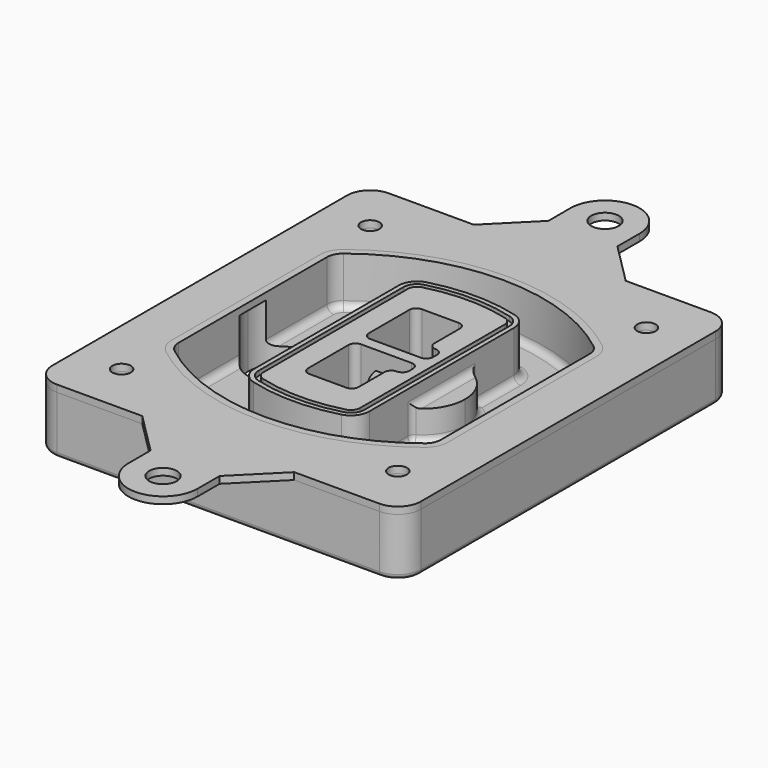
from build123d import *

# Parameters (mm, degrees)
F0_R      = 4
F1_DEPTH  = 25
F2_DEPTH  = 3
F3_DEPTH  = 18
F5_DEPTH  = 21
F6_DEPTH  = 2
F8_DEPTH  = 20
F9_DEPTH  = 16
F10_DEPTH = 25
F7_R      = 6
F7_R_2    = 4
F11_DEPTH = 6
F13_DEPTH = 9
F14_R     = 3
F15_R     = 2
F16_R     = 6
F16_R_2   = 4
F17_DEPTH = 3


with BuildPart() as f1:
    # F0 (on Top) → F1 (new body)
    with BuildSketch(Plane.XY):
        with BuildLine():
            ThreePointArc((14.05, 38.3825811321), (16.9789321881, 31.3115133202), (24.05, 28.3825811321))
            Line((24.05, 28.3825811321), (164.05, 28.3825811321))
            ThreePointArc((164.05, 28.3825811321), (171.1210678119, 31.3115133202), (174.05, 38.3825811321))
            Line((174.05, 38.3825811321), (174.05, 198.3825811321))
            ThreePointArc((174.05, 198.3825811321), (171.1210678119, 205.4536489439), (164.05, 208.3825811321))
            Line((164.05, 208.3825811321), (24.05, 208.3825811321))
            ThreePointArc((24.05, 208.3825811321), (16.9789321881, 205.4536489439), (14.05, 198.3825811321))
            Line((14.05, 198.3825811321), (14.05, 38.3825811321))
        make_face()
        with Locations((34.05, 50.8825811321)):
            Circle(F0_R, mode=Mode.SUBTRACT)
        with Locations((154.05, 50.8825811321)):
            Circle(F0_R, mode=Mode.SUBTRACT)
        with Locations((34.05, 185.8825811321)):
            Circle(F0_R, mode=Mode.SUBTRACT)
        with BuildLine():
            ThreePointArc((30.05, 158.6760234193), (31.4679615202, 164.8154295545), (35.4346153846, 169.7112011673))
            ThreePointArc((35.4346153846, 169.7112011673), (94.05, 189.8825811321), (152.6653846154, 169.7112011673))
            ThreePointArc((152.6653846154, 169.7112011673), (156.6320384798, 164.8154295545), (158.05, 158.6760234193))
            Line((158.05, 158.6760234193), (158.05, 78.0891388448))
            ThreePointArc((158.05, 78.0891388448), (156.6320384798, 71.9497327097), (152.6653846154, 67.0539610969))
            ThreePointArc((152.6653846154, 67.0539610969), (94.05, 46.8825811321), (35.4346153846, 67.0539610969))
            ThreePointArc((35.4346153846, 67.0539610969), (31.4679615202, 71.9497327097), (30.05, 78.0891388448))
            Line((30.05, 78.0891388448), (30.05, 158.6760234193))
        make_face(mode=Mode.SUBTRACT)
        with Locations((154.05, 185.8825811321)):
            Circle(F0_R, mode=Mode.SUBTRACT)
        with BuildLine():
            ThreePointArc((152.6653846154, 169.7112011673), (94.05, 189.8825811321), (35.4346153846, 169.7112011673))
            ThreePointArc((35.4346153846, 169.7112011673), (31.4679615202, 164.8154295545), (30.05, 158.6760234193))
            Line((30.05, 158.6760234193), (30.05, 78.0891388448))
            ThreePointArc((30.05, 78.0891388448), (31.4679615202, 71.9497327097), (35.4346153846, 67.0539610969))
            ThreePointArc((35.4346153846, 67.0539610969), (94.05, 46.8825811321), (152.6653846154, 67.0539610969))
            ThreePointArc((152.6653846154, 67.0539610969), (156.6320384798, 71.9497327097), (158.05, 78.0891388448))
            Line((158.05, 78.0891388448), (158.05, 158.6760234193))
            ThreePointArc((158.05, 158.6760234193), (156.6320384798, 164.8154295545), (152.6653846154, 169.7112011673))
        make_face()
        with BuildLine():
            Line((34.05, 78.0891388448), (34.05, 158.6760234193))
            ThreePointArc((34.05, 158.6760234193), (35.0628296573, 163.0613135158), (37.8961538462, 166.5582932393))
            ThreePointArc((37.8961538462, 166.5582932393), (94.05, 185.8825811321), (150.2038461538, 166.5582932393))
            ThreePointArc((150.2038461538, 166.5582932393), (153.0371703427, 163.0613135158), (154.05, 158.6760234193))
            Line((154.05, 158.6760234193), (154.05, 78.0891388448))
            ThreePointArc((154.05, 78.0891388448), (153.0371703427, 73.7038487483), (150.2038461538, 70.2068690248))
            ThreePointArc((150.2038461538, 70.2068690248), (94.05, 50.8825811321), (37.8961538462, 70.2068690248))
            ThreePointArc((37.8961538462, 70.2068690248), (35.0628296573, 73.7038487483), (34.05, 78.0891388448))
        make_face(mode=Mode.SUBTRACT)
        with BuildLine():
            ThreePointArc((37.8961538462, 166.5582932393), (35.0628296573, 163.0613135158), (34.05, 158.6760234193))
            Line((34.05, 158.6760234193), (34.05, 78.0891388448))
            ThreePointArc((34.05, 78.0891388448), (35.0628296573, 73.7038487483), (37.8961538462, 70.2068690248))
            ThreePointArc((37.8961538462, 70.2068690248), (94.05, 50.8825811321), (150.2038461538, 70.2068690248))
            ThreePointArc((150.2038461538, 70.2068690248), (153.0371703427, 73.7038487483), (154.05, 78.0891388448))
            Line((154.05, 78.0891388448), (154.05, 158.6760234193))
            ThreePointArc((154.05, 158.6760234193), (153.0371703427, 163.0613135158), (150.2038461538, 166.5582932393))
            ThreePointArc((150.2038461538, 166.5582932393), (94.05, 185.8825811321), (37.8961538462, 166.5582932393))
        make_face()
        with BuildLine():
            ThreePointArc((148.3576923077, 164.1936122933), (150.3410192399, 161.7457264869), (151.05, 158.6760234193))
            Line((151.05, 158.6760234193), (151.05, 78.0891388448))
            ThreePointArc((151.05, 78.0891388448), (150.3410192399, 75.0194357772), (148.3576923077, 72.5715499708))
            ThreePointArc((148.3576923077, 72.5715499708), (94.05, 53.8825811321), (39.7423076923, 72.5715499708))
            ThreePointArc((39.7423076923, 72.5715499708), (37.7589807601, 75.0194357772), (37.05, 78.0891388448))
            Line((37.05, 78.0891388448), (37.05, 158.6760234193))
            ThreePointArc((37.05, 158.6760234193), (37.7589807601, 161.7457264869), (39.7423076923, 164.1936122933))
            ThreePointArc((39.7423076923, 164.1936122933), (94.05, 182.8825811321), (148.3576923077, 164.1936122933))
        make_face(mode=Mode.SUBTRACT)
        with BuildLine():
            Line((151.05, 78.0891388448), (151.05, 158.6760234193))
            ThreePointArc((151.05, 158.6760234193), (150.3410192399, 161.7457264869), (148.3576923077, 164.1936122933))
            ThreePointArc((148.3576923077, 164.1936122933), (94.05, 182.8825811321), (39.7423076923, 164.1936122933))
            ThreePointArc((39.7423076923, 164.1936122933), (37.7589807601, 161.7457264869), (37.05, 158.6760234193))
            Line((37.05, 158.6760234193), (37.05, 78.0891388448))
            ThreePointArc((37.05, 78.0891388448), (37.7589807601, 75.0194357772), (39.7423076923, 72.5715499708))
            ThreePointArc((39.7423076923, 72.5715499708), (94.05, 53.8825811321), (148.3576923077, 72.5715499708))
            ThreePointArc((148.3576923077, 72.5715499708), (150.3410192399, 75.0194357772), (151.05, 78.0891388448))
        make_face()
    extrude(amount=-F1_DEPTH)

    # F0 (on Top) → F2 (join)
    with BuildSketch(Plane.XY):
        with BuildLine():
            ThreePointArc((37.8961538462, 166.5582932393), (35.0628296573, 163.0613135158), (34.05, 158.6760234193))
            Line((34.05, 158.6760234193), (34.05, 78.0891388448))
            ThreePointArc((34.05, 78.0891388448), (35.0628296573, 73.7038487483), (37.8961538462, 70.2068690248))
            ThreePointArc((37.8961538462, 70.2068690248), (94.05, 50.8825811321), (150.2038461538, 70.2068690248))
            ThreePointArc((150.2038461538, 70.2068690248), (153.0371703427, 73.7038487483), (154.05, 78.0891388448))
            Line((154.05, 78.0891388448), (154.05, 158.6760234193))
            ThreePointArc((154.05, 158.6760234193), (153.0371703427, 163.0613135158), (150.2038461538, 166.5582932393))
            ThreePointArc((150.2038461538, 166.5582932393), (94.05, 185.8825811321), (37.8961538462, 166.5582932393))
        make_face()
        with BuildLine():
            ThreePointArc((148.3576923077, 164.1936122933), (150.3410192399, 161.7457264869), (151.05, 158.6760234193))
            Line((151.05, 158.6760234193), (151.05, 78.0891388448))
            ThreePointArc((151.05, 78.0891388448), (150.3410192399, 75.0194357772), (148.3576923077, 72.5715499708))
            ThreePointArc((148.3576923077, 72.5715499708), (94.05, 53.8825811321), (39.7423076923, 72.5715499708))
            ThreePointArc((39.7423076923, 72.5715499708), (37.7589807601, 75.0194357772), (37.05, 78.0891388448))
            Line((37.05, 78.0891388448), (37.05, 158.6760234193))
            ThreePointArc((37.05, 158.6760234193), (37.7589807601, 161.7457264869), (39.7423076923, 164.1936122933))
            ThreePointArc((39.7423076923, 164.1936122933), (94.05, 182.8825811321), (148.3576923077, 164.1936122933))
        make_face(mode=Mode.SUBTRACT)
    extrude(amount=F2_DEPTH)

    # F0 (on Top) → F3 (cut)
    with BuildSketch(Plane.XY):
        with BuildLine():
            Line((151.05, 78.0891388448), (151.05, 158.6760234193))
            ThreePointArc((151.05, 158.6760234193), (150.3410192399, 161.7457264869), (148.3576923077, 164.1936122933))
            ThreePointArc((148.3576923077, 164.1936122933), (94.05, 182.8825811321), (39.7423076923, 164.1936122933))
            ThreePointArc((39.7423076923, 164.1936122933), (37.7589807601, 161.7457264869), (37.05, 158.6760234193))
            Line((37.05, 158.6760234193), (37.05, 78.0891388448))
            ThreePointArc((37.05, 78.0891388448), (37.7589807601, 75.0194357772), (39.7423076923, 72.5715499708))
            ThreePointArc((39.7423076923, 72.5715499708), (94.05, 53.8825811321), (148.3576923077, 72.5715499708))
            ThreePointArc((148.3576923077, 72.5715499708), (150.3410192399, 75.0194357772), (151.05, 78.0891388448))
        make_face()
    extrude(amount=-F3_DEPTH, mode=Mode.SUBTRACT)

    # F4 (on face) → F5 (join, through all)
    with BuildSketch(Plane.XY.offset(3)):
        with BuildLine():
            ThreePointArc((69.05, 79.13605345), (70.6988454002, 74.2716074127), (74.9657088123, 71.4123412437))
            ThreePointArc((74.9657088123, 71.4123412437), (94.05, 68.8825811321), (113.1342911877, 71.4123412437))
            ThreePointArc((113.1342911877, 71.4123412437), (117.4011545998, 74.2716074127), (119.05, 79.13605345))
            Line((119.05, 79.13605345), (119.05, 157.6291088141))
            ThreePointArc((119.05, 157.6291088141), (117.4011545998, 162.4935548514), (113.1342911877, 165.3528210204))
            ThreePointArc((113.1342911877, 165.3528210204), (94.05, 167.8825811321), (74.9657088123, 165.3528210204))
            ThreePointArc((74.9657088123, 165.3528210204), (70.6988454002, 162.4935548514), (69.05, 157.6291088141))
            Line((69.05, 157.6291088141), (69.05, 79.13605345))
        make_face()
        with BuildLine():
            ThreePointArc((112.6132183908, 163.4218929688), (115.8133659499, 161.2774433421), (117.05, 157.6291088141))
            Line((117.05, 157.6291088141), (117.05, 79.13605345))
            ThreePointArc((117.05, 79.13605345), (115.8133659499, 75.4877189221), (112.6132183908, 73.3432692953))
            ThreePointArc((112.6132183908, 73.3432692953), (94.05, 70.8825811321), (75.4867816092, 73.3432692953))
            ThreePointArc((75.4867816092, 73.3432692953), (72.2866340501, 75.4877189221), (71.05, 79.13605345))
            Line((71.05, 79.13605345), (71.05, 157.6291088141))
            ThreePointArc((71.05, 157.6291088141), (72.2866340501, 161.2774433421), (75.4867816092, 163.4218929688))
            ThreePointArc((75.4867816092, 163.4218929688), (94.05, 165.8825811321), (112.6132183908, 163.4218929688))
        make_face(mode=Mode.SUBTRACT)
        with BuildLine():
            Line((117.05, 79.13605345), (117.05, 157.6291088141))
            ThreePointArc((117.05, 157.6291088141), (115.8133659499, 161.2774433421), (112.6132183908, 163.4218929688))
            ThreePointArc((112.6132183908, 163.4218929688), (94.05, 165.8825811321), (75.4867816092, 163.4218929688))
            ThreePointArc((75.4867816092, 163.4218929688), (72.2866340501, 161.2774433421), (71.05, 157.6291088141))
            Line((71.05, 157.6291088141), (71.05, 79.13605345))
            ThreePointArc((71.05, 79.13605345), (72.2866340501, 75.4877189221), (75.4867816092, 73.3432692953))
            ThreePointArc((75.4867816092, 73.3432692953), (94.05, 70.8825811321), (112.6132183908, 73.3432692953))
            ThreePointArc((112.6132183908, 73.3432692953), (115.8133659499, 75.4877189221), (117.05, 79.13605345))
        make_face()
        with BuildLine():
            ThreePointArc((112.0921455939, 161.4909649173), (114.2255772999, 160.0613318328), (115.05, 157.6291088141))
            Line((115.05, 157.6291088141), (115.05, 79.13605345))
            ThreePointArc((115.05, 79.13605345), (114.2255772999, 76.7038304314), (112.0921455939, 75.2741973469))
            ThreePointArc((112.0921455939, 75.2741973469), (94.05, 72.8825811321), (76.0078544061, 75.2741973469))
            ThreePointArc((76.0078544061, 75.2741973469), (73.8744227001, 76.7038304314), (73.05, 79.13605345))
            Line((73.05, 79.13605345), (73.05, 157.6291088141))
            ThreePointArc((73.05, 157.6291088141), (73.8744227001, 160.0613318328), (76.0078544061, 161.4909649173))
            ThreePointArc((76.0078544061, 161.4909649173), (94.05, 163.8825811321), (112.0921455939, 161.4909649173))
        make_face(mode=Mode.SUBTRACT)
        with BuildLine():
            Line((115.05, 79.13605345), (115.05, 157.6291088141))
            ThreePointArc((115.05, 157.6291088141), (114.2255772999, 160.0613318328), (112.0921455939, 161.4909649173))
            ThreePointArc((112.0921455939, 161.4909649173), (94.05, 163.8825811321), (76.0078544061, 161.4909649173))
            ThreePointArc((76.0078544061, 161.4909649173), (73.8744227001, 160.0613318328), (73.05, 157.6291088141))
            Line((73.05, 157.6291088141), (73.05, 79.13605345))
            ThreePointArc((73.05, 79.13605345), (73.8744227001, 76.7038304314), (76.0078544061, 75.2741973469))
            ThreePointArc((76.0078544061, 75.2741973469), (94.05, 72.8825811321), (112.0921455939, 75.2741973469))
            ThreePointArc((112.0921455939, 75.2741973469), (114.2255772999, 76.7038304314), (115.05, 79.13605345))
        make_face()
        with BuildLine():
            Line((86.05, 115.8825811321), (108.05, 115.8825811321))
            ThreePointArc((108.05, 115.8825811321), (110.1713203436, 115.0039014756), (111.05, 112.8825811321))
            Line((111.05, 112.8825811321), (111.05, 110.8825811321))
            ThreePointArc((111.05, 110.8825811321), (110.1713203436, 108.7612607885), (108.05, 107.8825811321))
            ThreePointArc((108.05, 107.8825811321), (105.9286796564, 107.0039014756), (105.05, 104.8825811321))
            Line((105.05, 104.8825811321), (105.05, 90.8825811321))
            ThreePointArc((105.05, 90.8825811321), (104.1713203436, 88.7612607885), (102.05, 87.8825811321))
            Line((102.05, 87.8825811321), (86.05, 87.8825811321))
            ThreePointArc((86.05, 87.8825811321), (83.9286796564, 88.7612607885), (83.05, 90.8825811321))
            Line((83.05, 90.8825811321), (83.05, 112.8825811321))
            ThreePointArc((83.05, 112.8825811321), (83.9286796564, 115.0039014756), (86.05, 115.8825811321))
        make_face(mode=Mode.SUBTRACT)
        with BuildLine():
            ThreePointArc((86.05, 120.8825811321), (83.9286796564, 121.7612607885), (83.05, 123.8825811321))
            Line((83.05, 123.8825811321), (83.05, 145.8825811321))
            ThreePointArc((83.05, 145.8825811321), (83.9286796564, 148.0039014756), (86.05, 148.8825811321))
            Line((86.05, 148.8825811321), (102.05, 148.8825811321))
            ThreePointArc((102.05, 148.8825811321), (104.1713203436, 148.0039014756), (105.05, 145.8825811321))
            Line((105.05, 145.8825811321), (105.05, 131.8825811321))
            ThreePointArc((105.05, 131.8825811321), (105.9286796564, 129.7612607885), (108.05, 128.8825811321))
            ThreePointArc((108.05, 128.8825811321), (110.1713203436, 128.0039014756), (111.05, 125.8825811321))
            Line((111.05, 125.8825811321), (111.05, 123.8825811321))
            ThreePointArc((111.05, 123.8825811321), (110.1713203436, 121.7612607885), (108.05, 120.8825811321))
            Line((108.05, 120.8825811321), (86.05, 120.8825811321))
        make_face(mode=Mode.SUBTRACT)
    extrude(amount=-F5_DEPTH)

    # F4 (on face) → F6 (cut)
    with BuildSketch(Plane.XY.offset(3)):
        with BuildLine():
            Line((117.05, 79.13605345), (117.05, 157.6291088141))
            ThreePointArc((117.05, 157.6291088141), (115.8133659499, 161.2774433421), (112.6132183908, 163.4218929688))
            ThreePointArc((112.6132183908, 163.4218929688), (94.05, 165.8825811321), (75.4867816092, 163.4218929688))
            ThreePointArc((75.4867816092, 163.4218929688), (72.2866340501, 161.2774433421), (71.05, 157.6291088141))
            Line((71.05, 157.6291088141), (71.05, 79.13605345))
            ThreePointArc((71.05, 79.13605345), (72.2866340501, 75.4877189221), (75.4867816092, 73.3432692953))
            ThreePointArc((75.4867816092, 73.3432692953), (94.05, 70.8825811321), (112.6132183908, 73.3432692953))
            ThreePointArc((112.6132183908, 73.3432692953), (115.8133659499, 75.4877189221), (117.05, 79.13605345))
        make_face()
        with BuildLine():
            ThreePointArc((112.0921455939, 161.4909649173), (114.2255772999, 160.0613318328), (115.05, 157.6291088141))
            Line((115.05, 157.6291088141), (115.05, 79.13605345))
            ThreePointArc((115.05, 79.13605345), (114.2255772999, 76.7038304314), (112.0921455939, 75.2741973469))
            ThreePointArc((112.0921455939, 75.2741973469), (94.05, 72.8825811321), (76.0078544061, 75.2741973469))
            ThreePointArc((76.0078544061, 75.2741973469), (73.8744227001, 76.7038304314), (73.05, 79.13605345))
            Line((73.05, 79.13605345), (73.05, 157.6291088141))
            ThreePointArc((73.05, 157.6291088141), (73.8744227001, 160.0613318328), (76.0078544061, 161.4909649173))
            ThreePointArc((76.0078544061, 161.4909649173), (94.05, 163.8825811321), (112.0921455939, 161.4909649173))
        make_face(mode=Mode.SUBTRACT)
    extrude(amount=-F6_DEPTH, mode=Mode.SUBTRACT)

    # F7 (on face) → F8 (join)
    with BuildSketch(Plane(origin=(0, 0, -25), x_dir=(1, 0, 0), z_dir=(0, 0, -1))):
        with BuildLine():
            ThreePointArc((97.33842436, -118.3825811321), (110.8067035675, -104.9143019245), (124.274982775, -118.3825811321))
            Line((124.274982775, -118.3825811321), (129.274982775, -118.3825811321))
            ThreePointArc((129.274982775, -118.3825811321), (110.8067035675, -99.9143019245), (92.33842436, -118.3825811321))
            Line((92.33842436, -118.3825811321), (97.33842436, -118.3825811321))
        make_face()
        with BuildLine():
            Line((97.33842436, -118.3825811321), (124.274982775, -118.3825811321))
            ThreePointArc((124.274982775, -118.3825811321), (110.8067035675, -104.9143019245), (97.33842436, -118.3825811321))
        make_face()
        with BuildLine():
            ThreePointArc((97.33842436, -118.3825811321), (110.8067035675, -131.8508603396), (124.274982775, -118.3825811321))
            Line((124.274982775, -118.3825811321), (97.33842436, -118.3825811321))
        make_face()
        with BuildLine():
            Line((129.274982775, -118.3825811321), (124.274982775, -118.3825811321))
            ThreePointArc((124.274982775, -118.3825811321), (110.8067035675, -131.8508603396), (97.33842436, -118.3825811321))
            Line((97.33842436, -118.3825811321), (92.33842436, -118.3825811321))
            ThreePointArc((92.33842436, -118.3825811321), (110.8067035675, -136.8508603396), (129.274982775, -118.3825811321))
        make_face()
    extrude(amount=-F8_DEPTH)

    # F7 (on face) → F9 (cut)
    with BuildSketch(Plane(origin=(0, 0, -25), x_dir=(1, 0, 0), z_dir=(0, 0, -1))):
        with BuildLine():
            Line((97.33842436, -118.3825811321), (124.274982775, -118.3825811321))
            ThreePointArc((124.274982775, -118.3825811321), (110.8067035675, -104.9143019245), (97.33842436, -118.3825811321))
        make_face()
        with BuildLine():
            ThreePointArc((97.33842436, -118.3825811321), (110.8067035675, -131.8508603396), (124.274982775, -118.3825811321))
            Line((124.274982775, -118.3825811321), (97.33842436, -118.3825811321))
        make_face()
    extrude(amount=-F9_DEPTH, mode=Mode.SUBTRACT)

    # F7 (on face) → F10 (cut)
    with BuildSketch(Plane(origin=(0, 0, -25), x_dir=(1, 0, 0), z_dir=(0, 0, -1))):
        with BuildLine():
            Line((35.0181770675, -118.3825811321), (61.9547354825, -118.3825811321))
            ThreePointArc((61.9547354825, -118.3825811321), (48.486456275, -104.9143019245), (35.0181770675, -118.3825811321))
        make_face()
        with BuildLine():
            ThreePointArc((35.0181770675, -118.3825811321), (48.486456275, -131.8508603396), (61.9547354825, -118.3825811321))
            Line((61.9547354825, -118.3825811321), (35.0181770675, -118.3825811321))
        make_face()
    extrude(amount=-F10_DEPTH, mode=Mode.SUBTRACT)

    # F7 (on face) → F11 (cut)
    with BuildSketch(Plane(origin=(0, 0, -25), x_dir=(1, 0, 0), z_dir=(0, 0, -1))):
        with Locations((154.05, -185.8825811321)):
            Circle(F7_R)
        with Locations((154.05, -185.8825811321)):
            Circle(F7_R_2, mode=Mode.SUBTRACT)
        with Locations((154.05, -185.8825811321)):
            Circle(F7_R)
        with Locations((154.05, -185.8825811321)):
            Circle(F7_R_2, mode=Mode.SUBTRACT)
        with Locations((34.05, -185.8825811321)):
            Circle(F7_R)
        with Locations((34.05, -185.8825811321)):
            Circle(F7_R_2, mode=Mode.SUBTRACT)
        with Locations((34.05, -185.8825811321)):
            Circle(F7_R)
        with Locations((34.05, -185.8825811321)):
            Circle(F7_R_2, mode=Mode.SUBTRACT)
        with Locations((34.05, -50.8825811321)):
            Circle(F7_R)
        with Locations((34.05, -50.8825811321)):
            Circle(F7_R_2, mode=Mode.SUBTRACT)
        with Locations((34.05, -50.8825811321)):
            Circle(F7_R)
        with Locations((34.05, -50.8825811321)):
            Circle(F7_R_2, mode=Mode.SUBTRACT)
        with Locations((154.05, -50.8825811321)):
            Circle(F7_R)
        with Locations((154.05, -50.8825811321)):
            Circle(F7_R_2, mode=Mode.SUBTRACT)
        with Locations((154.05, -50.8825811321)):
            Circle(F7_R)
        with Locations((154.05, -50.8825811321)):
            Circle(F7_R_2, mode=Mode.SUBTRACT)
    extrude(amount=-F11_DEPTH, mode=Mode.SUBTRACT)

    # F12 (on face) → F13 (cut, through all)
    with BuildSketch(Plane(origin=(0, 0, -9), x_dir=(1, 0, 0), z_dir=(0, 0, -1))):
        with BuildLine():
            Line((105.05, -104.8825811321), (105.05, -100.8344273567))
            ThreePointArc((105.05, -100.8344273567), (96.6196536419, -106.5586667507), (92.5084157545, -115.8825811321))
            Line((92.5084157545, -115.8825811321), (97.5724848595, -115.8825811321))
            ThreePointArc((97.5724848595, -115.8825811321), (100.2357188154, -110.0369939039), (105.3036447004, -106.0898642673))
            ThreePointArc((105.3036447004, -106.0898642673), (105.1140958889, -105.4994012441), (105.05, -104.8825811321))
        make_face()
        with BuildLine():
            ThreePointArc((105.3036447004, -130.6752979968), (100.2357188154, -126.7281683602), (97.5724848595, -120.8825811321))
            Line((97.5724848595, -120.8825811321), (92.5084157545, -120.8825811321))
            ThreePointArc((92.5084157545, -120.8825811321), (96.6196536419, -130.2064955134), (105.05, -135.9307349074))
            Line((105.05, -135.9307349074), (105.05, -131.8825811321))
            ThreePointArc((105.05, -131.8825811321), (105.1140958889, -131.26576102), (105.3036447004, -130.6752979968))
        make_face()
        with BuildLine():
            ThreePointArc((105.3036447004, -106.0898642673), (100.2357188154, -110.0369939039), (97.5724848595, -115.8825811321))
            Line((97.5724848595, -115.8825811321), (108.05, -115.8825811321))
            ThreePointArc((108.05, -115.8825811321), (110.1713203436, -115.0039014756), (111.05, -112.8825811321))
            Line((111.05, -112.8825811321), (111.05, -110.8825811321))
            ThreePointArc((111.05, -110.8825811321), (110.1713203436, -108.7612607885), (108.05, -107.8825811321))
            ThreePointArc((108.05, -107.8825811321), (106.4101599782, -107.3947365219), (105.3036447004, -106.0898642673))
        make_face()
        with BuildLine():
            Line((108.05, -120.8825811321), (97.5724848595, -120.8825811321))
            ThreePointArc((97.5724848595, -120.8825811321), (100.2357188154, -126.7281683602), (105.3036447004, -130.6752979968))
            ThreePointArc((105.3036447004, -130.6752979968), (106.4101599782, -129.3704257422), (108.05, -128.8825811321))
            ThreePointArc((108.05, -128.8825811321), (110.1713203436, -128.0039014756), (111.05, -125.8825811321))
            Line((111.05, -125.8825811321), (111.05, -123.8825811321))
            ThreePointArc((111.05, -123.8825811321), (110.1713203436, -121.7612607885), (108.05, -120.8825811321))
        make_face()
    extrude(amount=F13_DEPTH, mode=Mode.SUBTRACT)

    # F14
    f14_edges = [f1.edges().sort_by_distance(p)[0] for p in [
        (37.05, 94.679105, -18),
        (37.05, 142.086057, -18),
        (119.05, 118.382581, -5),
        (119.05, 134.909087, -11.5),
        (119.05, 101.856075, -11.5),
        (119.05, 90.496064, -18),
        (129.274983, 118.382581, -18),
    ]]
    fillet(f14_edges, radius=F14_R)

    # F15
    f15_edges = [f1.edges().sort_by_distance(p)[0] for p in [
        (94.05, 28.382581, -25),
    ]]
    fillet(f15_edges, radius=F15_R)


with BuildPart() as f17:
    # F16 (on face) → F17 (new body, through all)
    with BuildSketch(Plane.XY):
        with BuildLine():
            Line((79.05, 226.3825811321), (61.05, 208.3825811321))
            Line((61.05, 208.3825811321), (127.05, 208.3825811321))
            Line((127.05, 208.3825811321), (109.05, 226.3825811321))
            Line((109.05, 226.3825811321), (109.05, 238.3825811321))
            ThreePointArc((109.05, 238.3825811321), (94.05, 253.3825811321), (79.05, 238.3825811321))
            Line((79.05, 238.3825811321), (79.05, 226.3825811321))
        make_face()
        with Locations((94.05, 238.3825811321)):
            Circle(F16_R, mode=Mode.SUBTRACT)
        with BuildLine():
            Line((127.05, 28.3825811321), (61.05, 28.3825811321))
            Line((61.05, 28.3825811321), (79.05, 10.3825811321))
            Line((79.05, 10.3825811321), (79.05, -1.6174188679))
            ThreePointArc((79.05, -1.6174188679), (94.05, -16.6174188679), (109.05, -1.6174188679))
            Line((109.05, -1.6174188679), (109.05, 10.3825811321))
            Line((109.05, 10.3825811321), (127.05, 28.3825811321))
        make_face()
        with Locations((94.05, -1.6174188679)):
            Circle(F16_R, mode=Mode.SUBTRACT)
        with BuildLine():
            Line((14.05, 198.3825811321), (14.05, 38.3825811321))
            ThreePointArc((14.05, 38.3825811321), (16.9789321881, 31.3115133202), (24.05, 28.3825811321))
            Line((24.05, 28.3825811321), (61.05, 28.3825811321))
            Line((61.05, 28.3825811321), (127.05, 28.3825811321))
            Line((127.05, 28.3825811321), (164.05, 28.3825811321))
            ThreePointArc((164.05, 28.3825811321), (171.1210678119, 31.3115133202), (174.05, 38.3825811321))
            Line((174.05, 38.3825811321), (174.05, 198.3825811321))
            ThreePointArc((174.05, 198.3825811321), (171.1210678119, 205.4536489439), (164.05, 208.3825811321))
            Line((164.05, 208.3825811321), (127.05, 208.3825811321))
            Line((127.05, 208.3825811321), (61.05, 208.3825811321))
            Line((61.05, 208.3825811321), (24.05, 208.3825811321))
            ThreePointArc((24.05, 208.3825811321), (16.9789321881, 205.4536489439), (14.05, 198.3825811321))
        make_face()
        with Locations((34.05, 50.8825811321)):
            Circle(F16_R_2, mode=Mode.SUBTRACT)
        with Locations((154.05, 50.8825811321)):
            Circle(F16_R_2, mode=Mode.SUBTRACT)
        with Locations((34.05, 185.8825811321)):
            Circle(F16_R_2, mode=Mode.SUBTRACT)
        with BuildLine():
            ThreePointArc((150.2038461538, 166.5582932393), (153.0371703427, 163.0613135158), (154.05, 158.6760234193))
            Line((154.05, 158.6760234193), (154.05, 78.0891388448))
            ThreePointArc((154.05, 78.0891388448), (153.0371703427, 73.7038487483), (150.2038461538, 70.2068690248))
            ThreePointArc((150.2038461538, 70.2068690248), (94.05, 50.8825811321), (37.8961538462, 70.2068690248))
            ThreePointArc((37.8961538462, 70.2068690248), (35.0628296573, 73.7038487483), (34.05, 78.0891388448))
            Line((34.05, 78.0891388448), (34.05, 158.6760234193))
            ThreePointArc((34.05, 158.6760234193), (35.0628296573, 163.0613135158), (37.8961538462, 166.5582932393))
            ThreePointArc((37.8961538462, 166.5582932393), (94.05, 185.8825811321), (150.2038461538, 166.5582932393))
        make_face(mode=Mode.SUBTRACT)
        with Locations((154.05, 185.8825811321)):
            Circle(F16_R_2, mode=Mode.SUBTRACT)
    extrude(amount=F17_DEPTH)


solid = Compound([f1.part, f17.part])
